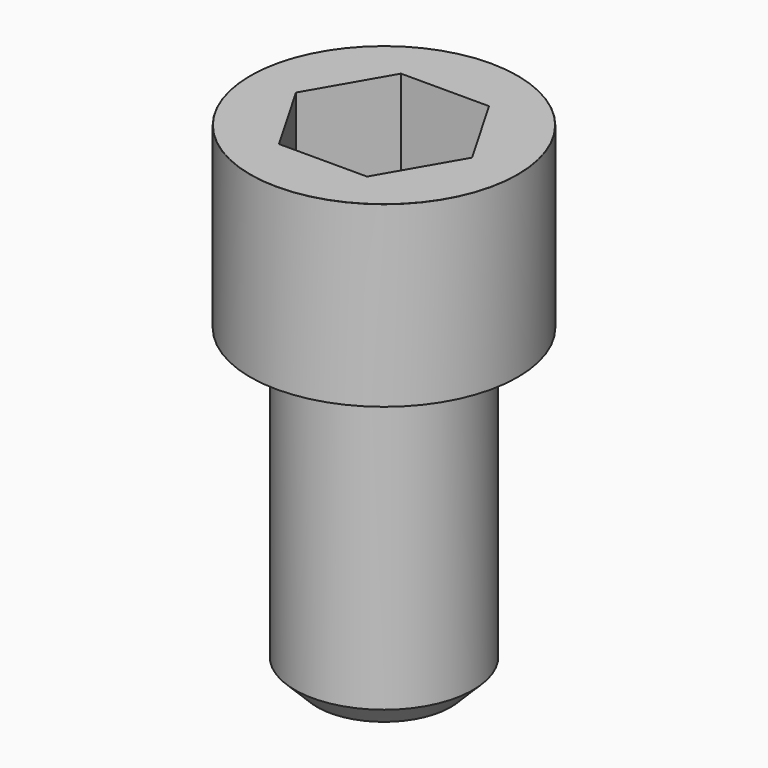
from build123d import *

# Parameters (mm, degrees)
POCKET_DEPTH = 17.1


with BuildPart() as part:
    # Sketch → Revolve (revolve)
    with BuildSketch(Plane.YZ):
        with BuildLine():
            Line((9.999, 0), (15, 0))
            Line((15, 0), (15, 19.97229))
            ThreePointArc((15, 19.97229), (14.991884, 19.991884), (14.97229, 20))
            Line((14.97229, 20), (0, 20))
            Line((0, -35), (0, 20))
            Line((7.5, -35), (0, -35))
            Line((10, -32.5), (7.5, -35))
            Line((10, -0.2), (10, -32.5))
            Line((9.999, 0), (10, -0.2))
        make_face()
    revolve(axis=Axis((0, 0, 0), (0, 0, 1)))

    # Sketch001 → Pocket (cut)
    with BuildSketch(Plane.XY.offset(20)):
        Polygon((9.87269, 0), (4.936345, 8.55), (-4.936345, 8.55), (-9.87269, 0), (-4.936345, -8.55), (4.936345, -8.55), align=None)
    extrude(amount=-POCKET_DEPTH, mode=Mode.SUBTRACT)


solid = part.part
